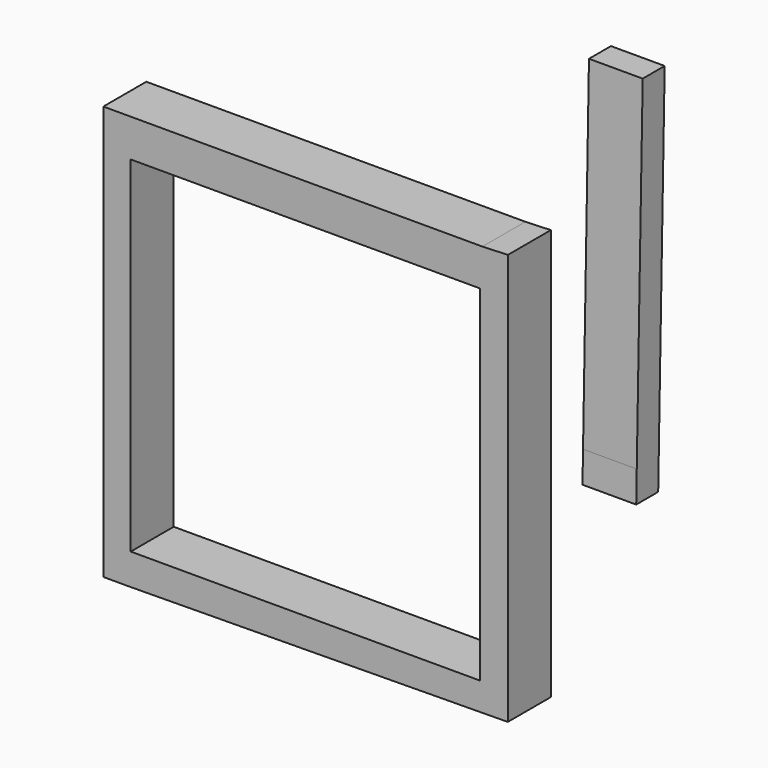
from build123d import *

# Parameters (mm, degrees)
F1_DEPTH = 25.4
F3_DEPTH = 25.4
F5_DEPTH = 25.4


with BuildPart() as f1:
    # F0 (on Front) → F1 (new body)
    with BuildSketch(Plane.XZ):
        Polygon((93.72651577, -97.0906019211), (93.72651577, 97.2803458571), (81.6759616137, 96.8339592218), (81.6759616137, 80.0969600677), (81.6759616137, -84.5939666033), (81.6759616137, -97.0906019211), align=None)
        Polygon((81.6759616137, 80.0969600677), (81.6759616137, 96.8339592218), (-97.5202396512, 96.8339592218), (-97.5202396512, 80.0969600677), (-86.3623321056, 80.0969600677), align=None)
        Polygon((-86.3623321056, -96.8676805496), (81.6759616137, -97.0906019211), (81.6759616137, -84.5939666033), (-86.3623321056, -84.5939666033), align=None)
        Polygon((-97.5202396512, -96.4213907719), (-86.3623321056, -96.8676805496), (-86.3623321056, -84.5939666033), (-86.3623321056, 80.0969600677), (-97.5202396512, 80.0969600677), align=None)
    extrude(amount=F1_DEPTH)

    # F2 (on Front) → F3 (join)
    with BuildSketch(Plane.XZ):
        Polygon((-84.5567584038, 96.4676588774), (-97.4971503019, 96.2035655975), (-97.4971503019, -98.9583730698), (-84.5567584038, -98.9583730698), (-84.5567584038, -84.1693580151), (-84.5567584038, 79.0377706289), align=None)
        Polygon((93.4393554926, 96.4676588774), (-84.5567584038, 96.4676588774), (-84.5567584038, 79.0377706289), (80.4989784956, 79.0377706289), (93.1752547622, 79.0377706289), align=None)
        Polygon((80.4989784956, -96.5815484524), (-84.5567584038, -98.9583730698), (93.1752547622, -97.1097052097), (93.1752547622, 79.0377706289), (80.4989784956, 79.0377706289), (80.4989784956, -84.1693580151), align=None)
        Polygon((-84.5567584038, -84.1693580151), (-84.5567584038, -98.9583730698), (80.4989784956, -96.5815484524), (80.4989784956, -84.1693580151), align=None)
    extrude(amount=F3_DEPTH)


with BuildPart() as f5:
    # F4 (on Right) → F5 (new body)
    with BuildSketch(Plane.YZ):
        Polygon((148.8548964262, -94.4111868739), (152.6828855276, 81.3141465187), (139.6872550249, 81.3141465187), (136.1787137475, -79.7468098621), (135.8592659235, -94.4111868739), align=None)
    extrude(amount=F5_DEPTH)


solid = Compound([f1.part, f5.part])
